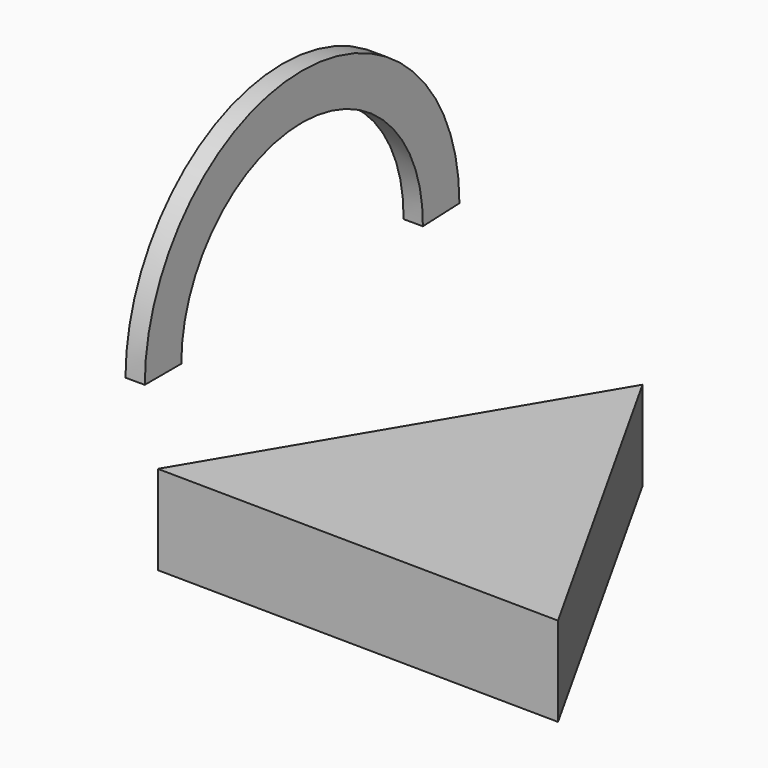
from build123d import *

# Parameters (mm, degrees)
F1_DEPTH = 9.398
F3_DEPTH = 2.032


with BuildPart() as f1:
    # F0 (on Top) → F1 (new body)
    with BuildSketch(Plane.XY):
        Polygon((21.143296, -12.572014), (0.316036, 24.596639), (-21.459332, -12.024624), align=None)
    extrude(amount=F1_DEPTH)


with BuildPart() as f3:
    # F2 (on Right) → F3 (new body)
    with BuildSketch(Plane.YZ):
        with BuildLine():
            ThreePointArc((-38.294881, 37.461329), (-22.291801, 53.371642), (-6.474794, 37.276335))
            Line((-6.474794, 37.276335), (-1.664949, 37.461329))
            ThreePointArc((-1.664949, 37.461329), (-22.3843, 58.18068), (-43.103651, 37.461329))
            Line((-43.103651, 37.461329), (-38.294881, 37.461329))
        make_face()
    extrude(amount=F3_DEPTH)


solid = Compound([f1.part, f3.part])
